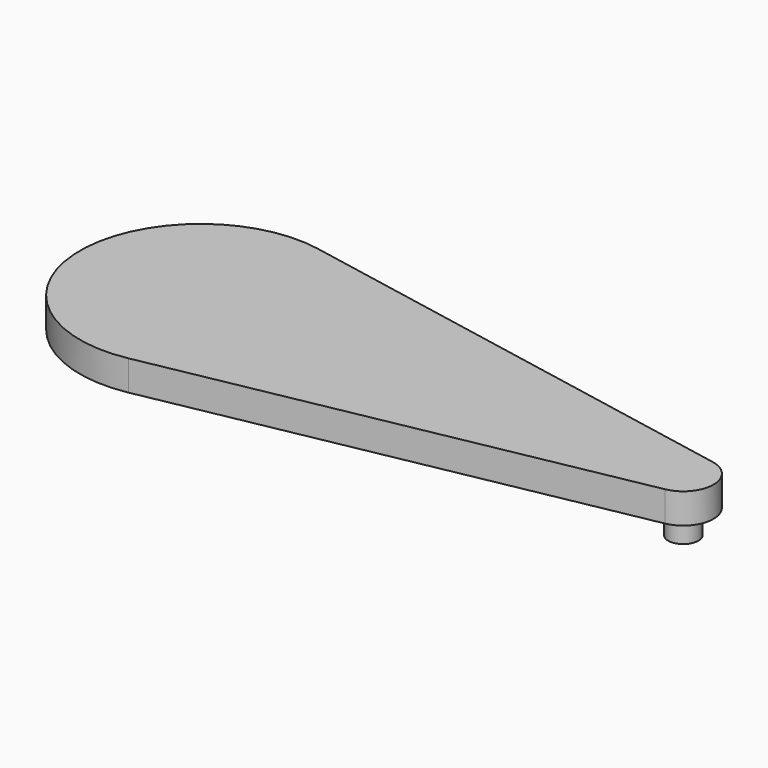
from build123d import *

# Parameters (mm, degrees)
F0_R     = 1.5875
F1_DEPTH = 3.175
F2_DEPTH = 2.54


with BuildPart() as f1:
    # F0 (on Top) → F1 (new body)
    with BuildSketch(Plane.XY):
        with BuildLine():
            Line((-48.41875, -12.4747604561), (0.5953125, -3.118690114))
            ThreePointArc((0.5953125, -3.118690114), (3.175, 0), (0.5953125, 3.118690114))
            Line((0.5953125, 3.118690114), (-48.41875, 12.4747604561))
            ThreePointArc((-48.41875, 12.4747604561), (-63.5, 0), (-48.41875, -12.4747604561))
        make_face()
        Circle(F0_R, mode=Mode.SUBTRACT)
        Circle(F0_R)
    extrude(amount=F1_DEPTH)

    # F0 (on Top) → F2 (join)
    with BuildSketch(Plane.XY):
        Circle(F0_R)
    extrude(amount=-F2_DEPTH)


solid = f1.part
